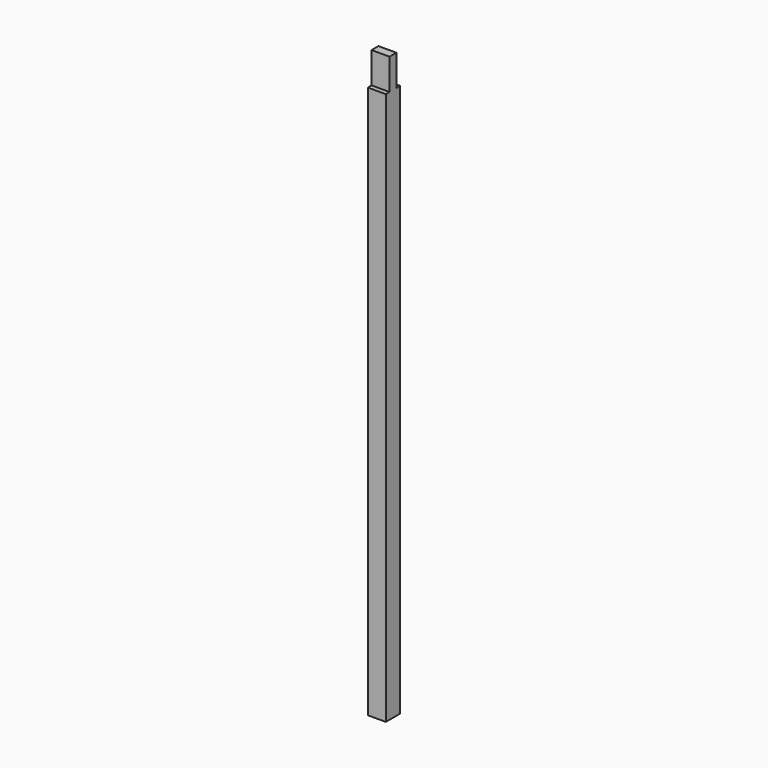
from build123d import *

# Parameters (mm, degrees)
F0_W     = 150
F0_H     = 150
F1_DEPTH = 4880
F2_W     = 150
F2_H     = 39
F3_DEPTH = 260
F4_DEPTH = 260


with BuildPart() as f1:
    # F0 (on Top) → F1 (new body)
    with BuildSketch(Plane.XY):
        Rectangle(F0_W, F0_H)
    extrude(amount=F1_DEPTH)

    # F2 (on face) → F3 (cut)
    with BuildSketch(Plane.XY.offset(4880)):
        with Locations((0, 55.5)):
            Rectangle(F2_W, F2_H)
        with Locations((0, -55.5)):
            Rectangle(F2_W, F2_H)
    extrude(amount=-F3_DEPTH, mode=Mode.SUBTRACT)

    # F2 (on face) → F4 (cut)
    with BuildSketch(Plane.XY.offset(4880)):
        with Locations((0, 55.5)):
            Rectangle(F2_W, F2_H)
    extrude(amount=-F4_DEPTH, mode=Mode.SUBTRACT)


solid = f1.part
